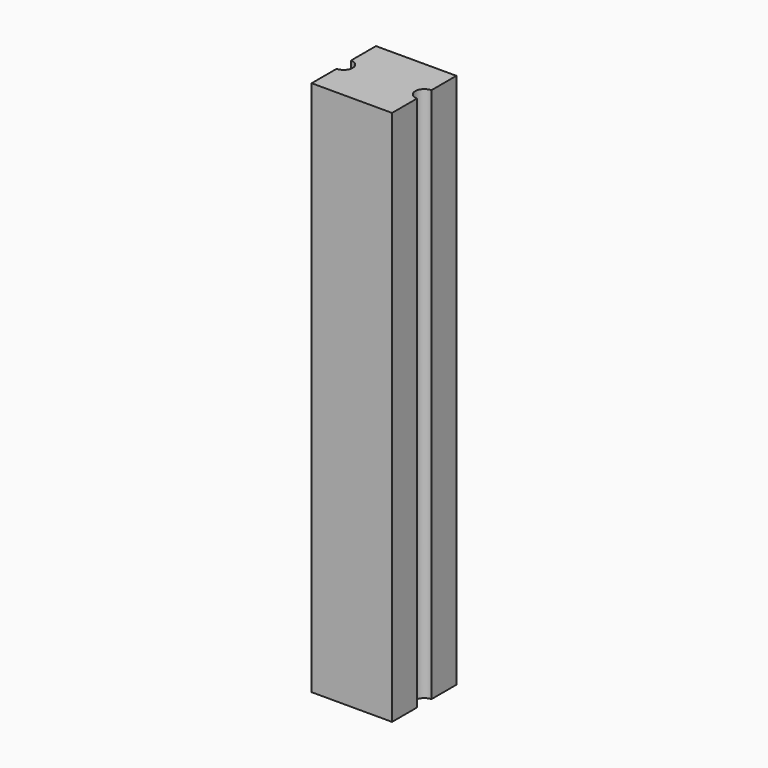
from build123d import *

# Parameters (mm, degrees)
F0_W     = 22.86
F0_H     = 152.4
F1_DEPTH = 22.86
F3_DEPTH = 152.4
F5_DEPTH = 152.4


with BuildPart() as f1:
    # F0 (on Right) → F1 (new body)
    with BuildSketch(Plane.YZ):
        with Locations((-11.480133, 46.355159)):
            Rectangle(F0_W, F0_H)
    extrude(amount=F1_DEPTH)

    # F2 (on face) → F3 (cut)
    with BuildSketch(Plane.XY.offset(122.555159)):
        with BuildLine():
            Line((22.86, -14.020133), (22.86, -8.940133))
            ThreePointArc((22.86, -8.940133), (20.32, -11.480133), (22.86, -14.020133))
        make_face()
        with BuildLine():
            Line((0, -14.020133), (0, -8.940133))
            ThreePointArc((0, -8.940133), (-2.54, -11.480133), (0, -14.020133))
        make_face()
        with BuildLine():
            ThreePointArc((22.86, -14.020133), (24.656051, -13.276184), (25.4, -11.480133))
            ThreePointArc((25.4, -11.480133), (24.656051, -9.684082), (22.86, -8.940133))
            Line((22.86, -8.940133), (22.86, -14.020133))
        make_face()
    extrude(amount=-F3_DEPTH, mode=Mode.SUBTRACT)

    # F4 (on face) → F5 (cut)
    with BuildSketch(Plane.XY.offset(122.555159)):
        with BuildLine():
            ThreePointArc((0, -14.020133), (1.796051, -13.276184), (2.54, -11.480133))
            ThreePointArc((2.54, -11.480133), (1.796051, -9.684082), (0, -8.940133))
            Line((0, -8.940133), (0, -14.020133))
        make_face()
    extrude(amount=-F5_DEPTH, mode=Mode.SUBTRACT)


solid = f1.part
